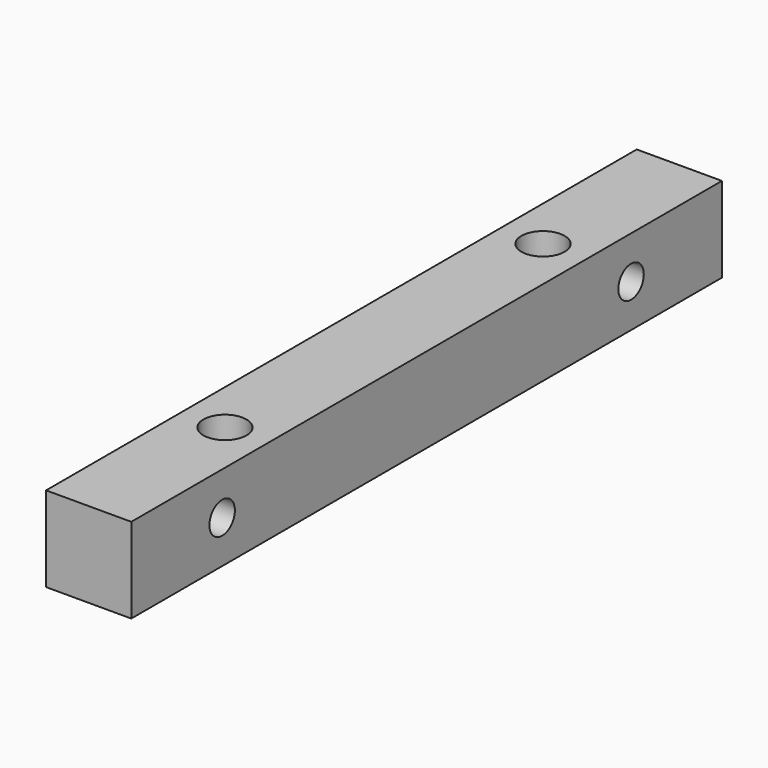
from build123d import *

# Parameters (mm, degrees)
F0_W     = 9.525
F0_H     = 9.525
F1_DEPTH = 41.275
F2_R     = 1.778
F3_DEPTH = 9.525
F4_R     = 2.413
F5_DEPTH = 9.525


with BuildPart() as f1:
    # F0 (on Front) → F1 (new body, symmetric)
    with BuildSketch(Plane.XZ):
        Rectangle(F0_W, F0_H)
    extrude(amount=F1_DEPTH, both=True)

    # F2 (on face) → F3 (cut, through all)
    with BuildSketch(Plane.YZ.offset(4.7625)):
        with Locations((-28.575, 0)):
            Circle(F2_R)
        with Locations((28.575, 0)):
            Circle(F2_R)
    extrude(amount=-F3_DEPTH, mode=Mode.SUBTRACT)

    # F4 (on face) → F5 (cut, through all)
    with BuildSketch(Plane.XY.offset(4.7625)):
        with Locations((0, -22.225)):
            Circle(F4_R)
        with Locations((0, 22.225)):
            Circle(F4_R)
    extrude(amount=-F5_DEPTH, mode=Mode.SUBTRACT)


solid = f1.part
